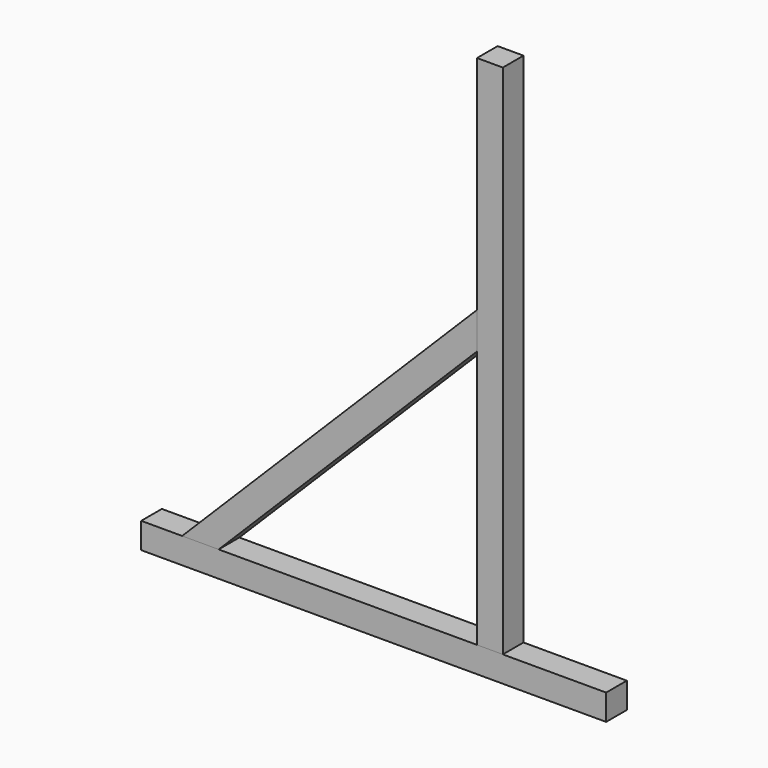
from build123d import *

# Parameters (mm, degrees)
F1_DEPTH = 25.4
F2_DEPTH = 25.4
F3_DEPTH = 25.4


with BuildPart() as f1:
    # F0 (on Front) → F1 (new body, symmetric)
    with BuildSketch(Plane.XZ):
        Polygon((-147.9709179405, 256.338134503), (-147.9709179405, -251.661865497), (-97.1709179405, -251.661865497), (-97.1709179405, 764.338134503), (-147.9709179405, 764.338134503), (-147.9709179405, 328.1801834716), align=None)
    extrude(amount=F1_DEPTH, both=True)


with BuildPart() as f2:
    # F0 (on Front) → F2 (new body, symmetric)
    with BuildSketch(Plane.XZ):
        Polygon((-97.1709179405, -251.661865497), (-147.9709179405, -251.661865497), (-655.9709179405, -251.661865497), (-727.8129669091, -251.661865497), (-808.3709179405, -251.661865497), (-808.3709179405, -302.461865497), (106.0290820595, -302.461865497), (106.0290820595, -251.661865497), align=None)
    extrude(amount=F2_DEPTH, both=True)


with BuildPart() as f3:
    # F0 (on Front) → F3 (new body, symmetric)
    with BuildSketch(Plane.XZ):
        Polygon((-655.9709179405, -251.661865497), (-147.9709179405, 256.338134503), (-147.9709179405, 328.1801834716), (-727.8129669091, -251.661865497), align=None)
    extrude(amount=F3_DEPTH, both=True)


solid = Compound([f1.part, f2.part, f3.part])
